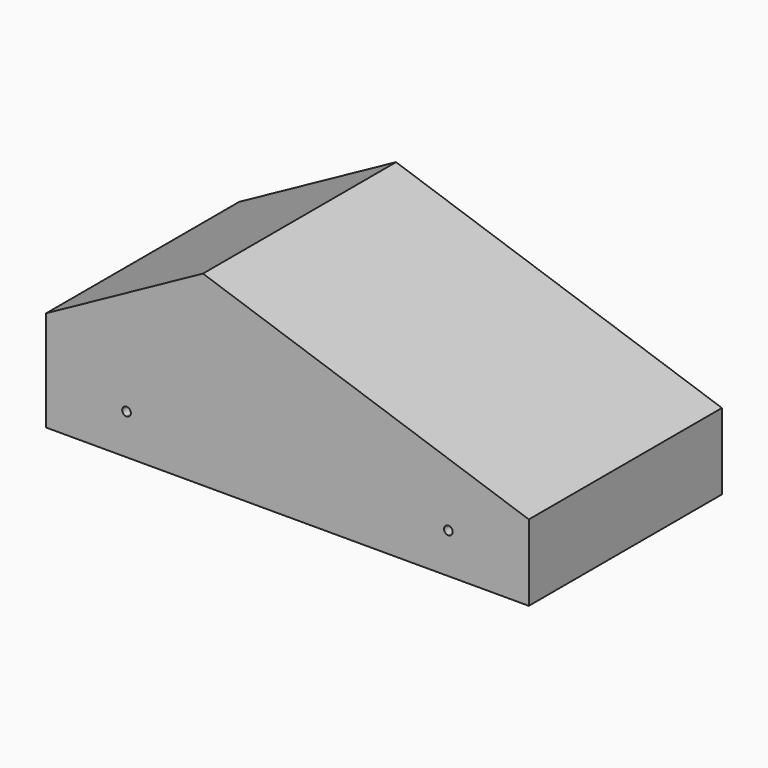
from build123d import *

# Parameters (mm, degrees)
F1_DEPTH = 60


with BuildPart() as f1:
    # F0 (on Front) → F1 (new body)
    with BuildSketch(Plane.XZ):
        Polygon((0, 25), (0, 0), (20, 0), (100, 0), (120, 0), (120, 18.918289), (38.999476, 46.372868), align=None)
        with BuildLine():
            ThreePointArc((21.075, 10), (20.76014, 9.23986), (20, 8.925))
            ThreePointArc((20, 8.925), (19.23986, 10.76014), (21.075, 10))
        make_face(mode=Mode.SUBTRACT)
        with BuildLine():
            ThreePointArc((101.075, 10), (100.76014, 9.23986), (100, 8.925))
            ThreePointArc((100, 8.925), (99.23986, 10.76014), (101.075, 10))
        make_face(mode=Mode.SUBTRACT)
    extrude(amount=F1_DEPTH)


solid = f1.part
